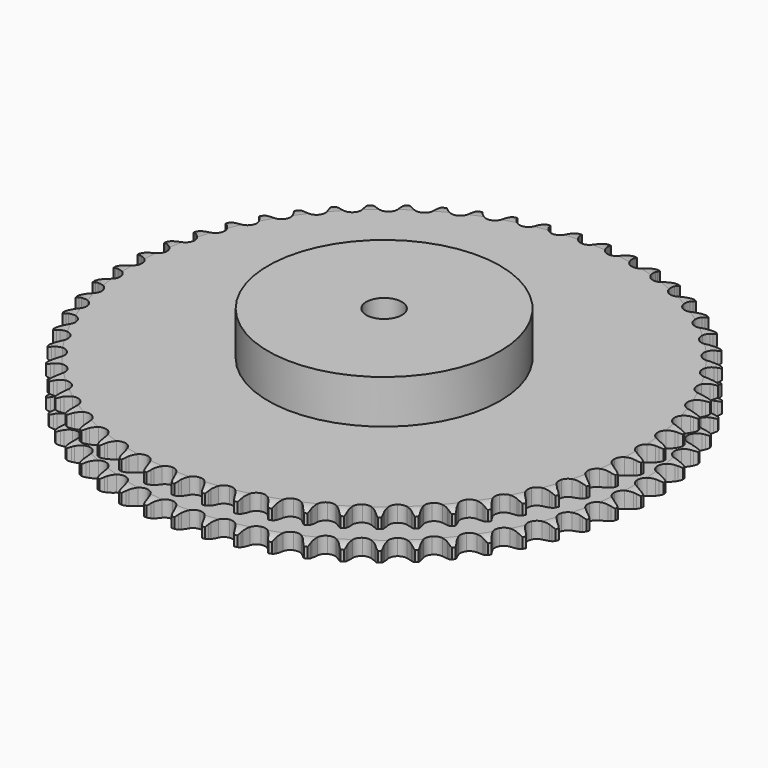
from build123d import *

# Parameters (mm, degrees)
PAD_DEPTH         = 25.5
SKETCH001_R       = 65
PAD001_DEPTH      = 50
SKETCH002_R       = 10
POCKET_DEPTH      = 0.001
POCKET_DEPTH_BACK = 50.001


with BuildPart() as part:
    # Sprocket → Pad (new body)
    with BuildSketch(Plane.XY):
        with BuildLine():
            ThreePointArc((-8.213934, 148.879911), (-7.188651, 147.518016), (-6.467824, 145.973228))
            Line((-6.467824, 145.973228), (-5.974503, 144.543364))
            ThreePointArc((-5.974503, 144.543364), (-5.195971, 142.734719), (-4.1584, 141.061174))
            ThreePointArc((-4.1584, 141.061174), (-2.332995, 139.504304), (0, 138.944768))
            ThreePointArc((0, 138.944768), (2.332995, 139.504304), (4.1584, 141.061174))
            ThreePointArc((4.1584, 141.061174), (5.195971, 142.734719), (5.974503, 144.543364))
            Line((5.974503, 144.543364), (6.467824, 145.973228))
            ThreePointArc((6.467824, 145.973228), (7.188651, 147.518016), (8.213934, 148.879911))
            ThreePointArc((8.213934, 148.879911), (9.083174, 147.413493), (9.629686, 145.798783))
            Line((9.629686, 145.798783), (9.962717, 144.323328))
            ThreePointArc((9.962717, 144.323328), (10.537557, 142.440015), (11.384727, 140.662486))
            ThreePointArc((11.384727, 140.662486), (13.027785, 138.914256), (15.285067, 138.101468))
            ThreePointArc((15.285067, 138.101468), (17.665456, 138.400959), (19.65105, 139.74757))
            Line((19.65105, 139.74757), (21.8392, 143.008839))
            ThreePointArc((21.8392, 143.008839), (22.143522, 143.701531), (22.486824, 144.375755))
            ThreePointArc((22.486824, 144.375755), (23.373215, 145.831871), (24.542095, 147.072711))
            ThreePointArc((24.542095, 147.072711), (25.244741, 145.519569), (25.610305, 143.854539))
            Line((25.610305, 143.854539), (25.779002, 142.351402))
            ThreePointArc((25.779002, 142.351402), (26.143174, 140.416283), (26.78966, 138.556347))
            ThreePointArc((26.78966, 138.556347), (28.230425, 136.637977), (30.384594, 135.581802))
            ThreePointArc((30.384594, 135.581802), (32.783482, 135.617614), (34.905163, 136.73762))
            Line((34.905163, 136.73762), (37.438799, 139.738381))
            ThreePointArc((37.438799, 139.738381), (37.817476, 140.393391), (38.232864, 141.025757))
            ThreePointArc((38.232864, 141.025757), (39.27406, 142.375525), (40.572348, 143.480247))
            ThreePointArc((40.572348, 143.480247), (41.099871, 141.859234), (41.28005, 140.164095))
            Line((41.28005, 140.164095), (41.282366, 138.651523))
            ThreePointArc((41.282366, 138.651523), (41.431449, 136.688087), (41.869402, 134.768321))
            ThreePointArc((41.869402, 134.768321), (43.090387, 132.703099), (45.115293, 131.416358))
            ThreePointArc((45.115293, 131.416358), (47.50356, 131.188054), (49.735575, 132.06786))
            Line((49.735575, 132.06786), (52.583941, 134.771688))
            ThreePointArc((52.583941, 134.771688), (53.032377, 135.381065), (53.514809, 135.963897))
            ThreePointArc((53.514809, 135.963897), (54.698172, 137.190932), (56.110108, 138.146127))
            ThreePointArc((56.110108, 138.146127), (56.456105, 136.476921), (56.448711, 134.772249))
            Line((56.448711, 134.772249), (56.284617, 133.268603))
            ThreePointArc((56.284617, 133.268603), (56.216801, 131.300683), (56.440906, 129.34439))
            ThreePointArc((56.440906, 129.34439), (57.427289, 127.157384), (59.298353, 125.655696))
            ThreePointArc((59.298353, 125.655696), (61.64701, 125.166049), (63.962264, 125.794975))
            Line((63.962264, 125.794975), (67.090786, 128.169049))
            ThreePointArc((67.090786, 128.169049), (67.603536, 128.725396), (68.147157, 129.251619))
            ThreePointArc((68.147157, 129.251619), (69.458321, 130.341027), (70.966768, 131.135101))
            ThreePointArc((70.966768, 131.135101), (71.127038, 129.437963), (70.932161, 127.74445))
            Line((70.932161, 127.74445), (70.60365, 126.267982))
            ThreePointArc((70.60365, 126.267982), (70.319758, 124.319467), (70.327294, 122.350393))
            ThreePointArc((70.327294, 122.350393), (71.067102, 120.068151), (72.761612, 118.369745))
            ThreePointArc((72.761612, 118.369745), (75.042149, 117.624698), (77.412538, 117.99511))
            Line((77.412538, 117.99511), (80.783239, 120.010612))
            ThreePointArc((80.783239, 120.010612), (81.35408, 120.507175), (81.95229, 120.970402))
            ThreePointArc((81.95229, 120.970402), (83.375341, 121.908959), (84.961986, 122.532271))
            ThreePointArc((84.961986, 122.532271), (84.934585, 120.827803), (84.55459, 119.166007))
            Line((84.55459, 119.166007), (84.065649, 117.734639))
            ThreePointArc((84.065649, 117.734639), (83.569128, 115.82918), (83.360004, 113.871229))
            ThreePointArc((83.360004, 113.871229), (83.844256, 111.521453), (85.341643, 109.646945))
            ThreePointArc((85.341643, 109.646945), (87.526378, 108.655543), (89.923128, 108.762944))
            Line((89.923128, 108.762944), (93.495094, 110.395408))
            ThreePointArc((93.495094, 110.395408), (94.117096, 110.826161), (94.762634, 111.220768))
            ThreePointArc((94.762634, 111.220768), (96.280297, 111.997082), (97.925882, 112.442067))
            ThreePointArc((97.925882, 112.442067), (97.711141, 110.750958), (97.150642, 109.14105))
            Line((97.150642, 109.14105), (96.507206, 107.772157))
            ThreePointArc((96.507206, 107.772157), (95.804082, 105.932885), (95.380837, 104.009822))
            ThreePointArc((95.380837, 104.009822), (95.603655, 101.621036), (96.885743, 99.59318))
            ThreePointArc((96.885743, 99.59318), (98.948155, 98.367456), (101.342174, 98.210544))
            Line((101.342174, 98.210544), (105.072044, 99.440154))
            ThreePointArc((105.072044, 99.440154), (105.737658, 99.799867), (106.422688, 100.121064))
            ThreePointArc((106.422688, 100.121064), (108.01654, 100.725711), (109.70109, 100.986967))
            ThreePointArc((109.70109, 100.986967), (109.301617, 99.329746), (108.567416, 97.791269))
            Line((108.567416, 97.791269), (107.777296, 96.501467))
            ThreePointArc((107.777296, 96.501467), (106.876104, 94.750707), (106.243875, 92.885876))
            ThreePointArc((106.243875, 92.885876), (106.202555, 90.487077), (107.25378, 88.330489))
            ThreePointArc((107.25378, 88.330489), (109.168836, 86.885322), (111.531062, 86.466))
            Line((111.531062, 86.466), (115.373562, 87.277831))
            ThreePointArc((115.373562, 87.277831), (116.074707, 87.562137), (116.790915, 87.806027))
            ThreePointArc((116.790915, 87.806027), (118.441609, 88.231667), (120.144675, 88.306023))
            ThreePointArc((120.144675, 88.306023), (119.565319, 86.702805), (118.666329, 85.254434))
            Line((118.666329, 85.254434), (117.739116, 84.05938))
            ThreePointArc((117.739116, 84.05938), (116.650795, 82.418384), (115.817257, 80.634422))
            ThreePointArc((115.817257, 80.634422), (115.5123, 78.254727), (116.319902, 75.995585))
            ThreePointArc((116.319902, 75.995585), (118.064354, 74.348517), (120.366115, 73.671876))
            Line((120.366115, 73.671876), (124.274602, 74.056073))
            ThreePointArc((124.274602, 74.056073), (125.002768, 74.261522), (125.741458, 74.425143))
            ThreePointArc((125.741458, 74.425143), (127.428958, 74.66661), (129.129867, 74.553163))
            ThreePointArc((129.129867, 74.553163), (128.37766, 73.02341), (127.324793, 71.682725))
            Line((127.324793, 71.682725), (126.271742, 70.596926))
            ThreePointArc((126.271742, 70.596926), (125.009504, 69.085614), (123.984774, 67.404176))
            ThreePointArc((123.984774, 67.404176), (123.419882, 65.072472), (123.974059, 62.738198))
            ThreePointArc((123.974059, 62.738198), (125.526732, 60.909222), (127.740087, 59.983476))
            Line((127.740087, 59.983476), (131.667116, 59.935375))
            ThreePointArc((131.667116, 59.935375), (132.413463, 60.059473), (133.16567, 60.140838))
            ThreePointArc((133.16567, 60.140838), (134.869491, 60.195201), (136.547597, 59.895329))
            ThreePointArc((136.547597, 59.895329), (135.631669, 58.457609), (134.437707, 57.240886))
            Line((134.437707, 57.240886), (133.2716, 56.277521))
            ThreePointArc((133.2716, 56.277521), (131.850766, 54.914238), (130.647284, 53.355733))
            ThreePointArc((130.647284, 53.355733), (129.829314, 51.100324), (130.123338, 48.719254))
            ThreePointArc((130.123338, 48.719254), (131.465385, 46.730572), (133.563466, 45.566957))
            Line((133.563466, 45.566957), (137.46137, 45.087143))
            ThreePointArc((137.46137, 45.087143), (138.216839, 45.128383), (138.973431, 45.126506))
            ThreePointArc((138.973431, 45.126506), (140.672892, 44.993104), (142.307824, 44.510447))
            ThreePointArc((142.307824, 44.510447), (141.239295, 43.182212), (139.918729, 42.104219))
            Line((139.918729, 42.104219), (138.653722, 41.274983))
            ThreePointArc((138.653722, 41.274983), (137.091539, 40.076278), (135.723913, 38.659625))
            ThreePointArc((135.723913, 38.659625), (134.662793, 36.507888), (134.693095, 34.108924))
            ThreePointArc((134.693095, 34.108924), (135.808226, 31.984676), (137.765566, 30.597317))
            Line((137.765566, 30.597317), (141.587029, 29.691614))
            ThreePointArc((141.587029, 29.691614), (142.34245, 29.649496), (143.094243, 29.564399))
            ThreePointArc((143.094243, 29.564399), (144.768714, 29.244852), (146.340627, 28.585268))
            ThreePointArc((146.340627, 28.585268), (145.132466, 27.382642), (143.701327, 26.456465))
            Line((143.701327, 26.456465), (142.352775, 25.771422))
            ThreePointArc((142.352775, 25.771422), (140.668206, 24.751846), (139.153037, 23.494241))
            ThreePointArc((139.153037, 23.494241), (137.861649, 21.472296), (137.627862, 19.084558))
            ThreePointArc((137.627862, 19.084558), (138.502539, 16.850529), (140.295379, 15.256267))
            Line((140.295379, 15.256267), (143.994013, 13.935668))
            ThreePointArc((143.994013, 13.935668), (144.740216, 13.810704), (145.478085, 13.64342))
            ThreePointArc((145.478085, 13.64342), (147.10724, 13.141607), (148.597053, 12.313103))
            ThreePointArc((148.597053, 12.313103), (147.263926, 11.250683), (145.739586, 10.487565))
            Line((145.739586, 10.487565), (144.323858, 9.955031))
            ThreePointArc((144.323858, 9.955031), (142.537352, 9.126959), (140.893032, 8.043669))
            ThreePointArc((140.893032, 8.043669), (139.387051, 6.176059), (138.892012, 3.828532))
            ThreePointArc((138.892012, 3.828532), (139.51562, 1.51184), (141.122196, -0.269973))
            Line((141.122196, -0.269973), (144.653105, -1.989437))
            ThreePointArc((144.653105, -1.989437), (145.381032, -2.195731), (146.09602, -2.443172))
            ThreePointArc((146.09602, -2.443172), (147.660083, -3.12116), (149.049712, -4.108527))
            ThreePointArc((149.049712, -4.108527), (147.607802, -5.017843), (146.008764, -5.60864))
            Line((146.008764, -5.60864), (144.543045, -5.9822))
            ThreePointArc((144.543045, -5.9822), (142.676287, -6.608716), (140.922776, -7.504542))
            ThreePointArc((140.922776, -7.504542), (139.220484, -9.195148), (138.470202, -11.473968))
            ThreePointArc((138.470202, -11.473968), (138.835169, -13.845201), (140.23598, -15.792936))
            Line((140.23598, -15.792936), (143.556304, -17.890393))
            ThreePointArc((143.556304, -17.890393), (144.257119, -18.175513), (144.940547, -18.500107))
            ThreePointArc((144.940547, -18.500107), (146.420533, -19.346039), (147.69311, -20.480284))
            ThreePointArc((147.69311, -20.480284), (146.159918, -21.22546), (144.505593, -21.636764))
            Line((144.505593, -21.636764), (143.007676, -21.846815))
            ThreePointArc((143.007676, -21.846815), (141.083326, -22.26417), (139.241909, -22.961659))
            ThreePointArc((139.241909, -22.961659), (137.363968, -24.454737), (136.36755, -26.637189))
            ThreePointArc((136.36755, -26.637189), (136.469448, -29.03418), (137.64749, -31.124195))
            Line((137.64749, -31.124195), (140.716925, -33.574184))
            ThreePointArc((140.716925, -33.574184), (141.38212, -33.934669), (142.025692, -34.332475))
            ThreePointArc((142.025692, -34.332475), (143.403636, -35.336084), (144.543713, -36.603439))
            ThreePointArc((144.543713, -36.603439), (142.937851, -37.175428), (141.24832, -37.402247))
            Line((141.24832, -37.402247), (139.736387, -37.44624))
            ThreePointArc((139.736387, -37.44624), (137.777804, -37.649367), (135.870834, -38.140052))
            ThreePointArc((135.870834, -38.140052), (133.840039, -39.417479), (132.609582, -41.477071))
            ThreePointArc((132.609582, -41.477071), (132.447172, -43.870723), (133.388146, -46.077647))
            Line((133.388146, -46.077647), (136.169432, -48.85043))
            ThreePointArc((136.169432, -48.85043), (136.790934, -49.281904), (137.386838, -49.748094))
            ThreePointArc((137.386838, -49.748094), (138.646014, -50.897197), (139.639751, -52.282278))
            ThreePointArc((139.639751, -52.282278), (137.980713, -52.674137), (136.276484, -52.713717))
            Line((136.276484, -52.713717), (134.768887, -52.591118))
            ThreePointArc((134.768887, -52.591118), (132.799846, -52.577552), (130.850471, -52.855476))
            ThreePointArc((130.850471, -52.855476), (128.691474, -53.901746), (127.241913, -55.813478))
            ThreePointArc((127.241913, -55.813478), (126.817167, -58.174735), (127.50965, -60.47178))
            Line((127.50965, -60.47178), (129.969027, -63.533698))
            ThreePointArc((129.969027, -63.533698), (130.539291, -64.030924), (131.080293, -64.559838))
            ThreePointArc((131.080293, -64.559838), (132.205416, -65.840487), (133.040752, -67.32648))
            ThreePointArc((133.040752, -67.32648), (131.348675, -67.533454), (129.650436, -67.385314))
            Line((129.650436, -67.385314), (128.165476, -67.097611))
            ThreePointArc((128.165476, -67.097611), (126.209878, -66.867517), (124.24176, -66.929307))
            ThreePointArc((124.24176, -66.929307), (121.980769, -67.731719), (120.329699, -69.472384))
            ThreePointArc((120.329699, -69.472384), (119.647774, -71.772585), (120.08336, -74.131867))
            Line((120.08336, -74.131867), (122.190974, -77.445753))
            ThreePointArc((122.190974, -77.445753), (122.703078, -78.002695), (123.182612, -78.587914))
            ThreePointArc((123.182612, -78.587914), (124.160024, -79.984563), (124.826819, -81.553431))
            ThreePointArc((124.826819, -81.553431), (123.122242, -81.573005), (121.450607, -81.238945))
            Line((121.450607, -81.238945), (120.00631, -80.78963))
            ThreePointArc((120.00631, -80.78963), (118.087893, -80.3458), (116.124923, -80.190706))
            ThreePointArc((116.124923, -80.190706), (113.789382, -80.739521), (111.956846, -82.28799))
            ThreePointArc((111.956846, -82.28799), (111.026019, -84.499213), (111.199421, -86.892094))
            Line((111.199421, -86.892094), (112.929688, -90.417721))
            ThreePointArc((112.929688, -90.417721), (113.377415, -91.027618), (113.78966, -91.662038))
            ThreePointArc((113.78966, -91.662038), (114.607497, -93.157734), (115.097656, -94.790433))
            ThreePointArc((115.097656, -94.790433), (113.401273, -94.622371), (111.776532, -94.106444))
            Line((111.776532, -94.106444), (110.390429, -93.500972))
            ThreePointArc((110.390429, -93.500972), (108.532481, -92.848795), (106.598486, -92.478699))
            ThreePointArc((106.598486, -92.478699), (104.216747, -92.767254), (102.224988, -94.104731))
            ThreePointArc((102.224988, -94.104731), (101.056558, -96.200135), (100.965671, -98.597568))
            Line((100.965671, -98.597568), (102.297588, -102.292141))
            ThreePointArc((102.297588, -102.292141), (102.675505, -102.94759), (103.015456, -103.62351))
            ThreePointArc((103.015456, -103.62351), (103.663791, -105.200096), (103.971365, -106.876808))
            ThreePointArc((103.971365, -106.876808), (102.303765, -106.52315), (100.745642, -105.831619))
            Line((100.745642, -105.831619), (99.434559, -105.077339))
            ThreePointArc((99.434559, -105.077339), (97.659632, -104.224731), (95.778088, -103.644126))
            ThreePointArc((95.778088, -103.644126), (93.379061, -103.668919), (91.252258, -104.779168))
            ThreePointArc((91.252258, -104.779168), (89.860407, -106.733317), (89.506334, -109.106201))
            Line((89.506334, -109.106201), (90.423735, -112.924873))
            ThreePointArc((90.423735, -112.924873), (90.727253, -113.617918), (90.990784, -114.327133))
            ThreePointArc((90.990784, -114.327133), (91.461747, -115.965472), (91.583001, -117.665843))
            ThreePointArc((91.583001, -117.665843), (89.964428, -117.130882), (88.491836, -116.272142))
            Line((88.491836, -116.272142), (87.271687, -115.37821))
            ThreePointArc((87.271687, -115.37821), (85.601327, -114.335519), (83.795074, -113.551453))
            ThreePointArc((83.795074, -113.551453), (81.40788, -113.312183), (79.171849, -114.181728))
            ThreePointArc((79.171849, -114.181728), (77.573473, -115.970902), (76.960513, -118.290433))
            Line((76.960513, -118.290433), (77.45226, -122.186849))
            ThreePointArc((77.45226, -122.186849), (77.677695, -122.909077), (77.861607, -123.642979))
            ThreePointArc((77.861607, -123.642979), (78.14948, -125.323184), (78.082945, -127.026574))
            ThreePointArc((78.082945, -127.026574), (76.533045, -126.316803), (75.163859, -125.301278))
            Line((75.163859, -125.301278), (74.049455, -124.278545))
            ThreePointArc((74.049455, -124.278545), (72.503938, -123.05843), (70.794902, -122.08042))
            ThreePointArc((70.794902, -122.08042), (68.448518, -121.579991), (66.1304, -122.198277))
            ThreePointArc((66.1304, -122.198277), (64.344902, -123.800757), (63.480494, -126.038779))
            Line((63.480494, -126.038779), (63.540619, -129.965643))
            ThreePointArc((63.540619, -129.965643), (63.685235, -130.708288), (63.787296, -131.457966))
            ThreePointArc((63.787296, -131.457966), (63.888585, -133.159643), (63.635067, -134.845374))
            ThreePointArc((63.635067, -134.845374), (62.172655, -133.96941), (60.923494, -132.809427))
            Line((60.923494, -132.809427), (59.928364, -131.670308))
            ThreePointArc((59.928364, -131.670308), (58.526449, -130.287578), (56.935375, -129.127496))
            ThreePointArc((56.935375, -129.127496), (54.658283, -128.371982), (52.286219, -128.731504))
            ThreePointArc((52.286219, -128.731504), (50.335271, -130.127838), (49.229909, -132.257186))
            Line((49.229909, -132.257186), (48.857681, -136.16683))
            ThreePointArc((48.857681, -136.16683), (48.919723, -136.920876), (48.938693, -137.677232))
            ThreePointArc((48.938693, -137.677232), (48.85217, -139.379724), (48.414745, -141.027335))
            ThreePointArc((48.414745, -141.027335), (47.057572, -139.99581), (45.943601, -138.705449))
            Line((45.943601, -138.705449), (45.079823, -137.463771))
            ThreePointArc((45.079823, -137.463771), (43.838528, -135.935211), (42.384729, -134.607139))
            ThreePointArc((42.384729, -134.607139), (40.204571, -133.605712), (37.807353, -133.702104))
            ThreePointArc((37.807353, -133.702104), (35.714638, -134.875344), (34.381739, -136.870169))
            Line((34.381739, -136.870169), (33.581677, -140.715136))
            ThreePointArc((33.581677, -140.715136), (33.560391, -141.471431), (33.496041, -142.225283))
            ThreePointArc((33.496041, -142.225283), (33.222755, -143.907923), (32.606734, -145.497414))
            ThreePointArc((32.606734, -145.497414), (31.371275, -144.32285), (30.406015, -142.917774))
            Line((30.406015, -142.917774), (29.684074, -141.58861))
            ThreePointArc((29.684074, -141.58861), (28.618467, -139.932775), (27.319591, -138.452833))
            ThreePointArc((27.319591, -138.452833), (25.26283, -137.217649), (22.869557, -137.049743))
            ThreePointArc((22.869557, -137.049743), (20.660478, -137.985646), (19.116221, -139.821733))
            Line((19.116221, -139.821733), (17.898038, -143.555351))
            ThreePointArc((17.898038, -143.555351), (17.793682, -144.304714), (17.646792, -145.046912))
            ThreePointArc((17.646792, -145.046912), (17.19006, -146.689276), (16.402922, -148.201352))
            ThreePointArc((16.402922, -148.201352), (15.304172, -146.898006), (14.499341, -145.395272))
            Line((14.499341, -145.395272), (13.928001, -143.994755))
            ThreePointArc((13.928001, -143.994755), (13.051017, -142.231744), (11.92283, -140.617898))
            ThreePointArc((11.92283, -140.617898), (10.014432, -139.16395), (7.654156, -138.733783))
            ThreePointArc((7.654156, -138.733783), (5.355527, -139.420989), (3.618659, -141.076052))
            Line((3.618659, -141.076052), (1.99714, -144.652999))
            ThreePointArc((1.99714, -144.652999), (1.810981, -145.386333), (1.583335, -146.107868))
            ThreePointArc((1.583335, -146.107868), (0.948702, -147.690019), (0, -149.106327))
            ThreePointArc((0, -149.106327), (-0.948702, -147.690019), (-1.583335, -146.107868))
            Line((-1.583335, -146.107868), (-1.99714, -144.652999))
            ThreePointArc((-1.99714, -144.652999), (-2.674855, -142.804213), (-3.618659, -141.076052))
            ThreePointArc((-3.618659, -141.076052), (-5.355527, -139.420989), (-7.654156, -138.733783))
            ThreePointArc((-7.654156, -138.733783), (-10.014432, -139.16395), (-11.92283, -140.617898))
            Line((-11.92283, -140.617898), (-13.928001, -143.994755))
            ThreePointArc((-13.928001, -143.994755), (-14.193702, -144.70316), (-14.499341, -145.395272))
            ThreePointArc((-14.499341, -145.395272), (-15.304172, -146.898006), (-16.402922, -148.201352))
            ThreePointArc((-16.402922, -148.201352), (-17.19006, -146.689276), (-17.646792, -145.046912))
            Line((-17.646792, -145.046912), (-17.898038, -143.555351))
            ThreePointArc((-17.898038, -143.555351), (-18.368258, -141.643232), (-19.116221, -139.821733))
            ThreePointArc((-19.116221, -139.821733), (-20.660478, -137.985646), (-22.869557, -137.049743))
            ThreePointArc((-22.869557, -137.049743), (-25.26283, -137.217649), (-27.319591, -138.452833))
            Line((-27.319591, -138.452833), (-29.684074, -141.58861))
            ThreePointArc((-29.684074, -141.58861), (-30.026093, -142.263486), (-30.406015, -142.917774))
            ThreePointArc((-30.406015, -142.917774), (-31.371275, -144.32285), (-32.606734, -145.497414))
            ThreePointArc((-32.606734, -145.497414), (-33.222755, -143.907923), (-33.496041, -142.225283))
            Line((-33.496041, -142.225283), (-33.581677, -140.715136))
            ThreePointArc((-33.581677, -140.715136), (-33.838695, -138.762894), (-34.381739, -136.870169))
            ThreePointArc((-34.381739, -136.870169), (-35.714638, -134.875344), (-37.807353, -133.702104))
            ThreePointArc((-37.807353, -133.702104), (-40.204571, -133.605712), (-42.384729, -134.607139))
            Line((-42.384729, -134.607139), (-45.079823, -137.463771))
            ThreePointArc((-45.079823, -137.463771), (-45.494008, -138.096926), (-45.943601, -138.705449))
            ThreePointArc((-45.943601, -138.705449), (-47.057572, -139.99581), (-48.414745, -141.027335))
            ThreePointArc((-48.414745, -141.027335), (-48.85217, -139.379724), (-48.938693, -137.677232))
            Line((-48.938693, -137.677232), (-48.857681, -136.16683))
            ThreePointArc((-48.857681, -136.16683), (-48.898376, -134.198163), (-49.229909, -132.257186))
            ThreePointArc((-49.229909, -132.257186), (-50.335271, -130.127838), (-52.286219, -128.731504))
            ThreePointArc((-52.286219, -128.731504), (-54.658283, -128.371982), (-56.935375, -129.127496))
            Line((-56.935375, -129.127496), (-59.928364, -131.670308))
            ThreePointArc((-59.928364, -131.670308), (-60.409687, -132.254056), (-60.923494, -132.809427))
            ThreePointArc((-60.923494, -132.809427), (-62.172655, -133.96941), (-63.635067, -134.845374))
            ThreePointArc((-63.635067, -134.845374), (-63.888585, -133.159643), (-63.787296, -131.457966))
            Line((-63.787296, -131.457966), (-63.540619, -129.965643))
            ThreePointArc((-63.540619, -129.965643), (-63.364497, -128.004448), (-63.480494, -126.038779))
            ThreePointArc((-63.480494, -126.038779), (-64.344902, -123.800757), (-66.1304, -122.198277))
            ThreePointArc((-66.1304, -122.198277), (-68.448518, -121.579991), (-70.794902, -122.08042))
            Line((-70.794902, -122.08042), (-74.049455, -124.278545))
            ThreePointArc((-74.049455, -124.278545), (-74.592075, -124.805801), (-75.163859, -125.301278))
            ThreePointArc((-75.163859, -125.301278), (-76.533045, -126.316803), (-78.082945, -127.026574))
            ThreePointArc((-78.082945, -127.026574), (-78.14948, -125.323184), (-77.861607, -123.642979))
            Line((-77.861607, -123.642979), (-77.45226, -122.186849))
            ThreePointArc((-77.45226, -122.186849), (-77.061459, -120.256932), (-76.960513, -118.290433))
            ThreePointArc((-76.960513, -118.290433), (-77.573473, -115.970902), (-79.171849, -114.181728))
            ThreePointArc((-79.171849, -114.181728), (-81.40788, -113.312183), (-83.795074, -113.551453))
            Line((-83.795074, -113.551453), (-87.271687, -115.37821))
            ThreePointArc((-87.271687, -115.37821), (-87.869016, -115.842573), (-88.491836, -116.272142))
            ThreePointArc((-88.491836, -116.272142), (-89.964428, -117.130882), (-91.583001, -117.665843))
            ThreePointArc((-91.583001, -117.665843), (-91.461747, -115.965472), (-90.990784, -114.327133))
            Line((-90.990784, -114.327133), (-90.423735, -112.924873))
            ThreePointArc((-90.423735, -112.924873), (-89.823, -111.04966), (-89.506334, -109.106201))
            ThreePointArc((-89.506334, -109.106201), (-89.860407, -106.733317), (-91.252258, -104.779168))
            ThreePointArc((-91.252258, -104.779168), (-93.379061, -103.668919), (-95.778088, -103.644126))
            Line((-95.778088, -103.644126), (-99.434559, -105.077339))
            ThreePointArc((-99.434559, -105.077339), (-100.079346, -105.473173), (-100.745642, -105.831619))
            ThreePointArc((-100.745642, -105.831619), (-102.303765, -106.52315), (-103.971365, -106.876808))
            ThreePointArc((-103.971365, -106.876808), (-103.663791, -105.200096), (-103.015456, -103.62351))
            Line((-103.015456, -103.62351), (-102.297588, -102.292141))
            ThreePointArc((-102.297588, -102.292141), (-101.49421, -100.494395), (-100.965671, -98.597568))
            ThreePointArc((-100.965671, -98.597568), (-101.056558, -96.200135), (-102.224988, -94.104731))
            ThreePointArc((-102.224988, -94.104731), (-104.216747, -92.767254), (-106.598486, -92.478699))
            Line((-106.598486, -92.478699), (-110.390429, -93.500972))
            ThreePointArc((-110.390429, -93.500972), (-111.074848, -93.823471), (-111.776532, -94.106444))
            ThreePointArc((-111.776532, -94.106444), (-113.401273, -94.622371), (-115.097656, -94.790433))
            ThreePointArc((-115.097656, -94.790433), (-114.607497, -93.157734), (-113.78966, -91.662038))
            Line((-113.78966, -91.662038), (-112.929688, -90.417721))
            ThreePointArc((-112.929688, -90.417721), (-111.933419, -88.719265), (-111.199421, -86.892094))
            ThreePointArc((-111.199421, -86.892094), (-111.026019, -84.499213), (-111.956846, -82.28799))
            ThreePointArc((-111.956846, -82.28799), (-113.789382, -80.739521), (-116.124923, -80.190706))
            Line((-116.124923, -80.190706), (-120.00631, -80.78963))
            ThreePointArc((-120.00631, -80.78963), (-120.722052, -81.03488), (-121.450607, -81.238945))
            ThreePointArc((-121.450607, -81.238945), (-123.122242, -81.573005), (-124.826819, -81.553431))
            ThreePointArc((-124.826819, -81.553431), (-124.160024, -79.984563), (-123.182612, -78.587914))
            Line((-123.182612, -78.587914), (-122.190974, -77.445753))
            ThreePointArc((-122.190974, -77.445753), (-121.013907, -75.867202), (-120.08336, -74.131867))
            ThreePointArc((-120.08336, -74.131867), (-119.647774, -71.772585), (-120.329699, -69.472384))
            ThreePointArc((-120.329699, -69.472384), (-121.980769, -67.731719), (-124.24176, -66.929307))
            Line((-124.24176, -66.929307), (-128.165476, -67.097611))
            ThreePointArc((-128.165476, -67.097611), (-128.903854, -67.262635), (-129.650436, -67.385314))
            ThreePointArc((-129.650436, -67.385314), (-131.348675, -67.533454), (-133.040752, -67.32648))
            ThreePointArc((-133.040752, -67.32648), (-132.205416, -65.840487), (-131.080293, -64.559838))
            Line((-131.080293, -64.559838), (-129.969027, -63.533698))
            ThreePointArc((-129.969027, -63.533698), (-128.625451, -62.094215), (-127.50965, -60.47178))
            ThreePointArc((-127.50965, -60.47178), (-126.817167, -58.174735), (-127.241913, -55.813478))
            ThreePointArc((-127.241913, -55.813478), (-128.691474, -53.901746), (-130.850471, -52.855476))
            Line((-130.850471, -52.855476), (-134.768887, -52.591118))
            ThreePointArc((-134.768887, -52.591118), (-135.520938, -52.673913), (-136.276484, -52.713717))
            ThreePointArc((-136.276484, -52.713717), (-137.980713, -52.674137), (-139.639751, -52.282278))
            ThreePointArc((-139.639751, -52.282278), (-138.646014, -50.897197), (-137.386838, -49.748094))
            Line((-137.386838, -49.748094), (-136.169432, -48.85043))
            ThreePointArc((-136.169432, -48.85043), (-134.675655, -47.567488), (-133.388146, -46.077647))
            ThreePointArc((-133.388146, -46.077647), (-132.447172, -43.870723), (-132.609582, -41.477071))
            ThreePointArc((-132.609582, -41.477071), (-133.840039, -39.417479), (-135.870834, -38.140052))
            Line((-135.870834, -38.140052), (-139.736387, -37.44624))
            ThreePointArc((-139.736387, -37.44624), (-140.492981, -37.445801), (-141.24832, -37.402247))
            ThreePointArc((-141.24832, -37.402247), (-142.937851, -37.175428), (-144.543713, -36.603439))
            ThreePointArc((-144.543713, -36.603439), (-143.403636, -35.336084), (-142.025692, -34.332475))
            Line((-142.025692, -34.332475), (-140.716925, -33.574184))
            ThreePointArc((-140.716925, -33.574184), (-139.09108, -32.463357), (-137.64749, -31.124195))
            ThreePointArc((-137.64749, -31.124195), (-136.469448, -29.03418), (-136.36755, -26.637189))
            ThreePointArc((-136.36755, -26.637189), (-137.363968, -24.454737), (-139.241909, -22.961659))
            Line((-139.241909, -22.961659), (-143.007676, -21.846815))
            ThreePointArc((-143.007676, -21.846815), (-143.759629, -21.763147), (-144.505593, -21.636764))
            ThreePointArc((-144.505593, -21.636764), (-146.159918, -21.22546), (-147.69311, -20.480284))
            ThreePointArc((-147.69311, -20.480284), (-146.420533, -19.346039), (-144.940547, -18.500107))
            Line((-144.940547, -18.500107), (-143.556304, -17.890393))
            ThreePointArc((-143.556304, -17.890393), (-141.818128, -16.965164), (-140.23598, -15.792936))
            ThreePointArc((-140.23598, -15.792936), (-138.835169, -13.845201), (-138.470202, -11.473968))
            ThreePointArc((-138.470202, -11.473968), (-139.220484, -9.195148), (-140.922776, -7.504542))
            Line((-140.922776, -7.504542), (-144.543045, -5.9822))
            ThreePointArc((-144.543045, -5.9822), (-145.281231, -5.816318), (-146.008764, -5.60864))
            ThreePointArc((-146.008764, -5.60864), (-147.607802, -5.017843), (-149.049712, -4.108527))
            ThreePointArc((-149.049712, -4.108527), (-147.660083, -3.12116), (-146.09602, -2.443172))
            Line((-146.09602, -2.443172), (-144.653105, -1.989437))
            ThreePointArc((-144.653105, -1.989437), (-142.823695, -1.261037), (-141.122196, -0.269973))
            ThreePointArc((-141.122196, -0.269973), (-139.51562, 1.51184), (-138.892012, 3.828532))
            ThreePointArc((-138.892012, 3.828532), (-139.387051, 6.176059), (-140.893032, 8.043669))
            Line((-140.893032, 8.043669), (-144.323858, 9.955031))
            ThreePointArc((-144.323858, 9.955031), (-145.039315, 10.201113), (-145.739586, 10.487565))
            ThreePointArc((-145.739586, 10.487565), (-147.263926, 11.250683), (-148.597053, 12.313103))
            ThreePointArc((-148.597053, 12.313103), (-147.10724, 13.141607), (-145.478085, 13.64342))
            Line((-145.478085, 13.64342), (-143.994013, 13.935668))
            ThreePointArc((-143.994013, 13.935668), (-142.095577, 14.458397), (-140.295379, 15.256267))
            ThreePointArc((-140.295379, 15.256267), (-138.502539, 16.850529), (-137.627862, 19.084558))
            ThreePointArc((-137.627862, 19.084558), (-137.861649, 21.472296), (-139.153037, 23.494241))
            Line((-139.153037, 23.494241), (-142.352775, 25.771422))
            ThreePointArc((-142.352775, 25.771422), (-143.036818, 26.094716), (-143.701327, 26.456465))
            ThreePointArc((-143.701327, 26.456465), (-145.132466, 27.382642), (-146.340627, 28.585268))
            ThreePointArc((-146.340627, 28.585268), (-144.768714, 29.244852), (-143.094243, 29.564399))
            Line((-143.094243, 29.564399), (-141.587029, 29.691614))
            ThreePointArc((-141.587029, 29.691614), (-139.64261, 30.002326), (-137.765566, 30.597317))
            ThreePointArc((-137.765566, 30.597317), (-135.808226, 31.984676), (-134.693095, 34.108924))
            ThreePointArc((-134.693095, 34.108924), (-134.662793, 36.507888), (-135.723913, 38.659625))
            Line((-135.723913, 38.659625), (-138.653722, 41.274983))
            ThreePointArc((-138.653722, 41.274983), (-139.298049, 41.671564), (-139.918729, 42.104219))
            ThreePointArc((-139.918729, 42.104219), (-141.239295, 43.182212), (-142.307824, 44.510447))
            ThreePointArc((-142.307824, 44.510447), (-140.672892, 44.993104), (-138.973431, 45.126506))
            Line((-138.973431, 45.126506), (-137.46137, 45.087143))
            ThreePointArc((-137.46137, 45.087143), (-135.494571, 45.182068), (-133.563466, 45.566957))
            ThreePointArc((-133.563466, 45.566957), (-131.465385, 46.730572), (-130.123338, 48.719254))
            ThreePointArc((-130.123338, 48.719254), (-129.829314, 51.100324), (-130.647284, 53.355733))
            Line((-130.647284, 53.355733), (-133.2716, 56.277521))
            ThreePointArc((-133.2716, 56.277521), (-133.868389, 56.742577), (-134.437707, 57.240886))
            ThreePointArc((-134.437707, 57.240886), (-135.631669, 58.457609), (-136.547597, 59.895329))
            ThreePointArc((-136.547597, 59.895329), (-134.869491, 60.195201), (-133.16567, 60.140838))
            Line((-133.16567, 60.140838), (-131.667116, 59.935375))
            ThreePointArc((-131.667116, 59.935375), (-129.701812, 59.81336), (-127.740087, 59.983476))
            ThreePointArc((-127.740087, 59.983476), (-125.526732, 60.909222), (-123.974059, 62.738198))
            ThreePointArc((-123.974059, 62.738198), (-123.419882, 65.072472), (-123.984774, 67.404176))
            Line((-123.984774, 67.404176), (-126.271742, 70.596926))
            ThreePointArc((-126.271742, 70.596926), (-126.813749, 71.124811), (-127.324793, 71.682725))
            ThreePointArc((-127.324793, 71.682725), (-128.37766, 73.02341), (-129.129867, 74.553163))
            ThreePointArc((-129.129867, 74.553163), (-127.428958, 74.66661), (-125.741458, 74.425143))
            Line((-125.741458, 74.425143), (-124.274602, 74.056073))
            ThreePointArc((-124.274602, 74.056073), (-122.334649, 73.718599), (-120.366115, 73.671876))
            ThreePointArc((-120.366115, 73.671876), (-118.064354, 74.348517), (-116.319902, 75.995585))
            ThreePointArc((-116.319902, 75.995585), (-115.5123, 78.254727), (-115.817257, 80.634422))
            Line((-115.817257, 80.634422), (-117.739116, 84.05938))
            ThreePointArc((-117.739116, 84.05938), (-118.219761, 84.643687), (-118.666329, 85.254434))
            ThreePointArc((-118.666329, 85.254434), (-119.565319, 86.702805), (-120.144675, 88.306023))
            ThreePointArc((-120.144675, 88.306023), (-118.441609, 88.231667), (-116.790915, 87.806027))
            Line((-116.790915, 87.806027), (-115.373562, 87.277831))
            ThreePointArc((-115.373562, 87.277831), (-113.482508, 86.728994), (-111.531062, 86.466))
            ThreePointArc((-111.531062, 86.466), (-109.168836, 86.885322), (-107.25378, 88.330489))
            ThreePointArc((-107.25378, 88.330489), (-106.202555, 90.487077), (-106.243875, 92.885876))
            Line((-106.243875, 92.885876), (-107.777296, 96.501467))
            ThreePointArc((-107.777296, 96.501467), (-108.190746, 97.135102), (-108.567416, 97.791269))
            ThreePointArc((-108.567416, 97.791269), (-109.301617, 99.329746), (-109.70109, 100.986967))
            ThreePointArc((-109.70109, 100.986967), (-108.01654, 100.725711), (-106.422688, 100.121064))
            Line((-106.422688, 100.121064), (-105.072044, 99.440154))
            ThreePointArc((-105.072044, 99.440154), (-103.252844, 98.686617), (-101.342174, 98.210544))
            ThreePointArc((-101.342174, 98.210544), (-98.948155, 98.367456), (-96.885743, 99.59318))
            ThreePointArc((-96.885743, 99.59318), (-95.603655, 101.621036), (-95.380837, 104.009822))
            Line((-95.380837, 104.009822), (-96.507206, 107.772157))
            ThreePointArc((-96.507206, 107.772157), (-96.848442, 108.447429), (-97.150642, 109.14105))
            ThreePointArc((-97.150642, 109.14105), (-97.711141, 110.750958), (-97.925882, 112.442067))
            ThreePointArc((-97.925882, 112.442067), (-96.280297, 111.997082), (-94.762634, 111.220768))
            Line((-94.762634, 111.220768), (-93.495094, 110.395408))
            ThreePointArc((-93.495094, 110.395408), (-91.76983, 109.446317), (-89.923128, 108.762944))
            ThreePointArc((-89.923128, 108.762944), (-87.526378, 108.655543), (-85.341643, 109.646945))
            ThreePointArc((-85.341643, 109.646945), (-83.844256, 111.521453), (-83.360004, 113.871229))
            Line((-83.360004, 113.871229), (-84.065649, 117.734639))
            ThreePointArc((-84.065649, 117.734639), (-84.330528, 118.443352), (-84.55459, 119.166007))
            ThreePointArc((-84.55459, 119.166007), (-84.934585, 120.827803), (-84.961986, 122.532271))
            ThreePointArc((-84.961986, 122.532271), (-83.375341, 121.908959), (-81.95229, 120.970402))
            Line((-81.95229, 120.970402), (-80.783239, 120.010612))
            ThreePointArc((-80.783239, 120.010612), (-79.172855, 118.877488), (-77.412538, 117.99511))
            ThreePointArc((-77.412538, 117.99511), (-75.042149, 117.624698), (-72.761612, 118.369745))
            ThreePointArc((-72.761612, 118.369745), (-71.067102, 120.068151), (-70.327294, 122.350393))
            Line((-70.327294, 122.350393), (-70.60365, 126.267982))
            ThreePointArc((-70.60365, 126.267982), (-70.788957, 127.001532), (-70.932161, 127.74445))
            ThreePointArc((-70.932161, 127.74445), (-71.127038, 129.437963), (-70.966768, 131.135101))
            ThreePointArc((-70.966768, 131.135101), (-69.458321, 130.341027), (-68.147157, 129.251619))
            Line((-68.147157, 129.251619), (-67.090786, 128.169049))
            ThreePointArc((-67.090786, 128.169049), (-65.614828, 126.865647), (-63.962264, 125.794975))
            ThreePointArc((-63.962264, 125.794975), (-61.64701, 125.166049), (-59.298353, 125.655696))
            ThreePointArc((-59.298353, 125.655696), (-57.427289, 127.157384), (-56.440906, 129.34439))
            Line((-56.440906, 129.34439), (-56.284617, 133.268603))
            ThreePointArc((-56.284617, 133.268603), (-56.388103, 134.018086), (-56.448711, 134.772249))
            ThreePointArc((-56.448711, 134.772249), (-56.456105, 136.476921), (-56.110108, 138.146127))
            ThreePointArc((-56.110108, 138.146127), (-54.698172, 137.190932), (-53.514809, 135.963897))
            Line((-53.514809, 135.963897), (-52.583941, 134.771688))
            ThreePointArc((-52.583941, 134.771688), (-51.260326, 133.313829), (-49.735575, 132.06786))
            ThreePointArc((-49.735575, 132.06786), (-47.50356, 131.188054), (-45.115293, 131.416358))
            ThreePointArc((-45.115293, 131.416358), (-43.090387, 132.703099), (-41.869402, 134.768321))
            Line((-41.869402, 134.768321), (-41.282366, 138.651523))
            ThreePointArc((-41.282366, 138.651523), (-41.302774, 139.407842), (-41.28005, 140.164095))
            ThreePointArc((-41.28005, 140.164095), (-41.099871, 141.859234), (-40.572348, 143.480247))
            ThreePointArc((-40.572348, 143.480247), (-39.27406, 142.375525), (-38.232864, 141.025757))
            Line((-38.232864, 141.025757), (-37.438799, 139.738381))
            ThreePointArc((-37.438799, 139.738381), (-36.283594, 138.143762), (-34.905163, 136.73762))
            ThreePointArc((-34.905163, 136.73762), (-32.783482, 135.617614), (-30.384594, 135.581802))
            ThreePointArc((-30.384594, 135.581802), (-28.230425, 136.637977), (-26.78966, 138.556347))
            Line((-26.78966, 138.556347), (-25.779002, 142.351402))
            ThreePointArc((-25.779002, 142.351402), (-25.716086, 143.105376), (-25.610305, 143.854539))
            ThreePointArc((-25.610305, 143.854539), (-25.244741, 145.519569), (-24.542095, 147.072711))
            ThreePointArc((-24.542095, 147.072711), (-23.373215, 145.831871), (-22.486824, 144.375755))
            Line((-22.486824, 144.375755), (-21.8392, 143.008839))
            ThreePointArc((-21.8392, 143.008839), (-20.866428, 141.296816), (-19.65105, 139.74757))
            ThreePointArc((-19.65105, 139.74757), (-17.665456, 138.400959), (-15.285067, 138.101468))
            ThreePointArc((-15.285067, 138.101468), (-13.027785, 138.914256), (-11.384727, 140.662486))
            Line((-11.384727, 140.662486), (-9.962717, 144.323328))
            ThreePointArc((-9.962717, 144.323328), (-9.817239, 145.065804), (-9.629686, 145.798783))
            ThreePointArc((-9.629686, 145.798783), (-9.083174, 147.413493), (-8.213934, 148.879911))
        make_face()
    extrude(amount=PAD_DEPTH)

    # Sketch → Groove (revolve, cut)
    with BuildSketch(Plane.XZ):
        with BuildLine():
            ThreePointArc((141.025762, 0), (144.60347, 0.405129), (148, 1.6))
            Line((148, 1.6), (148, 7.4))
            ThreePointArc((148, 7.4), (144.60347, 8.594871), (141.025762, 9))
            Line((65, 9), (141.025762, 9))
            Line((65, 16.5), (65, 9))
            Line((141.025762, 16.5), (65, 16.5))
            ThreePointArc((141.025762, 16.5), (144.60347, 16.905129), (148, 18.1))
            Line((148, 18.1), (148, 23.9))
            ThreePointArc((148, 23.9), (144.60347, 25.094871), (141.025762, 25.5))
            Line((141.025762, 25.5), (151.025762, 25.5))
            Line((151.025762, 25.5), (151.025762, 0))
            Line((141.025762, 0), (151.025762, 0))
        make_face()
    revolve(axis=Axis((0, 0, 0), (0, 0, 1)), mode=Mode.SUBTRACT)

    # Sketch001 → Pad001 (join)
    with BuildSketch(Plane.XY):
        Circle(SKETCH001_R)
    extrude(amount=PAD001_DEPTH)

    # Sketch002 → Pocket (cut, two sides)
    with BuildSketch(Plane.XY) as pocket_sk:
        Circle(SKETCH002_R)
    extrude(amount=-POCKET_DEPTH, mode=Mode.SUBTRACT)
    extrude(pocket_sk.sketch, amount=POCKET_DEPTH_BACK, mode=Mode.SUBTRACT)


solid = part.part
